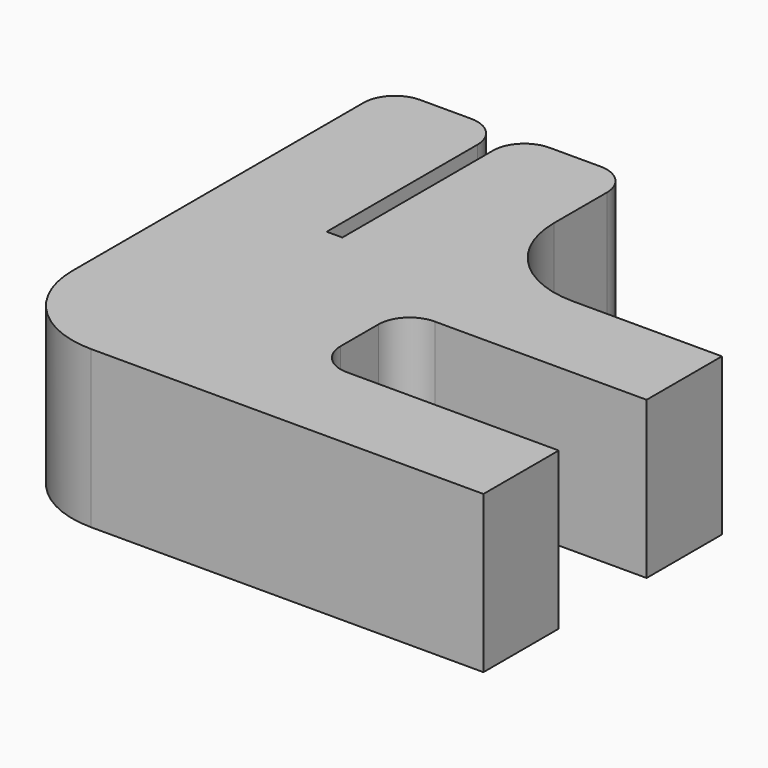
from build123d import *

# Parameters (mm, degrees)
F1_DEPTH = 5


with BuildPart() as f1:
    # F0 (on Top) → F1 (new body)
    with BuildSketch(Plane.XY):
        with BuildLine():
            Line((-34.368042, 42.236285), (-35.993042, 42.236285))
            ThreePointArc((-35.993042, 42.236285), (-36.700148, 41.943392), (-36.993042, 41.236285))
            Line((-36.993042, 41.236285), (-36.993042, 29.636285))
            ThreePointArc((-36.993042, 29.636285), (-36.114362, 27.514965), (-33.993042, 26.636285))
            Line((-33.993042, 26.636285), (-21.493042, 26.636285))
            Line((-21.493042, 26.636285), (-21.493042, 29.636285))
            Line((-21.493042, 29.636285), (-28.243042, 29.636285))
            ThreePointArc((-28.243042, 29.636285), (-28.950148, 29.929179), (-29.243042, 30.636285))
            Line((-29.243042, 30.636285), (-29.243042, 32.136285))
            ThreePointArc((-29.243042, 32.136285), (-28.950148, 32.843392), (-28.243042, 33.136285))
            Line((-28.243042, 33.136285), (-21.493042, 33.136285))
            Line((-21.493042, 33.136285), (-21.493042, 36.136285))
            Line((-21.493042, 36.136285), (-26.243042, 36.136285))
            ThreePointArc((-26.243042, 36.136285), (-28.364362, 37.014965), (-29.243042, 39.136285))
            Line((-29.243042, 39.136285), (-29.243042, 41.236285))
            ThreePointArc((-29.243042, 41.236285), (-29.535935, 41.943392), (-30.243042, 42.236285))
            Line((-30.243042, 42.236285), (-31.868042, 42.236285))
            ThreePointArc((-31.868042, 42.236285), (-32.575148, 41.943392), (-32.868042, 41.236285))
            Line((-32.868042, 41.236285), (-32.868042, 35.236285))
            Line((-32.868042, 35.236285), (-33.368042, 35.236285))
            Line((-33.368042, 35.236285), (-33.368042, 41.236285))
            ThreePointArc((-33.368042, 41.236285), (-33.660935, 41.943392), (-34.368042, 42.236285))
        make_face()
    extrude(amount=F1_DEPTH)


solid = f1.part
